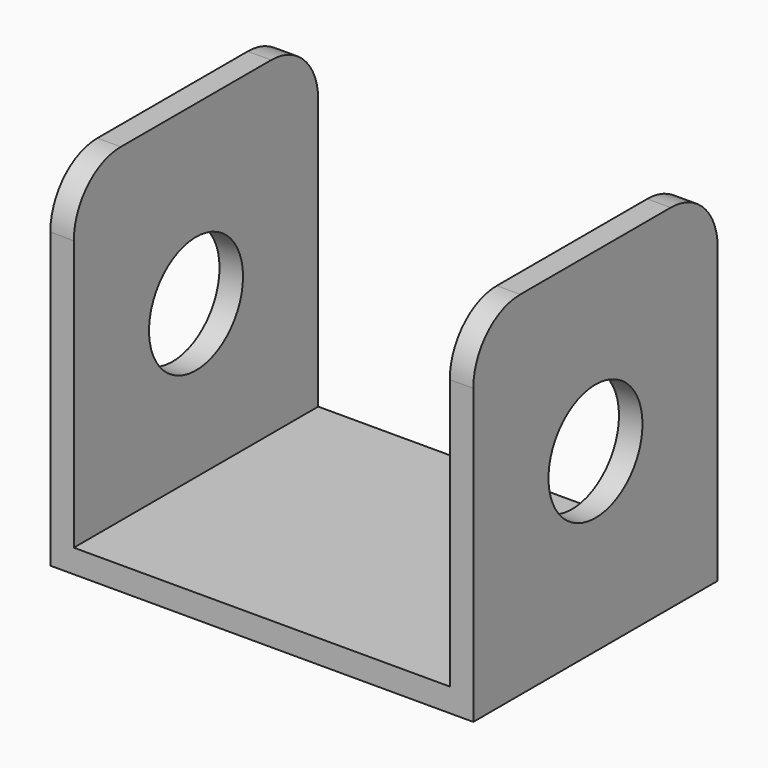
from build123d import *

# Parameters (mm, degrees)
F1_DEPTH = 26
F2_R     = 5
F3_DEPTH = 40
F4_R     = 5


with BuildPart() as f1:
    # F0 (on Front) → F1 (new body)
    with BuildSketch(Plane.XZ):
        Polygon((-18, 0), (0, 0), (18, 0), (18, 30), (16, 30), (16, 2), (-16, 2), (-16, 30), (-18, 30), align=None)
    extrude(amount=F1_DEPTH)

    # F2 (on face) → F3 (cut)
    with BuildSketch(Plane.YZ.offset(18)):
        with Locations((-13, 15)):
            Circle(F2_R)
    extrude(amount=-F3_DEPTH, mode=Mode.SUBTRACT)

    # F4
    f4_edges = [f1.edges().sort_by_distance(p)[0] for p in [
        (17, -26, 30),
        (17, 0, 30),
        (-17, 0, 30),
        (-17, -26, 30),
    ]]
    fillet(f4_edges, radius=F4_R)


solid = f1.part
